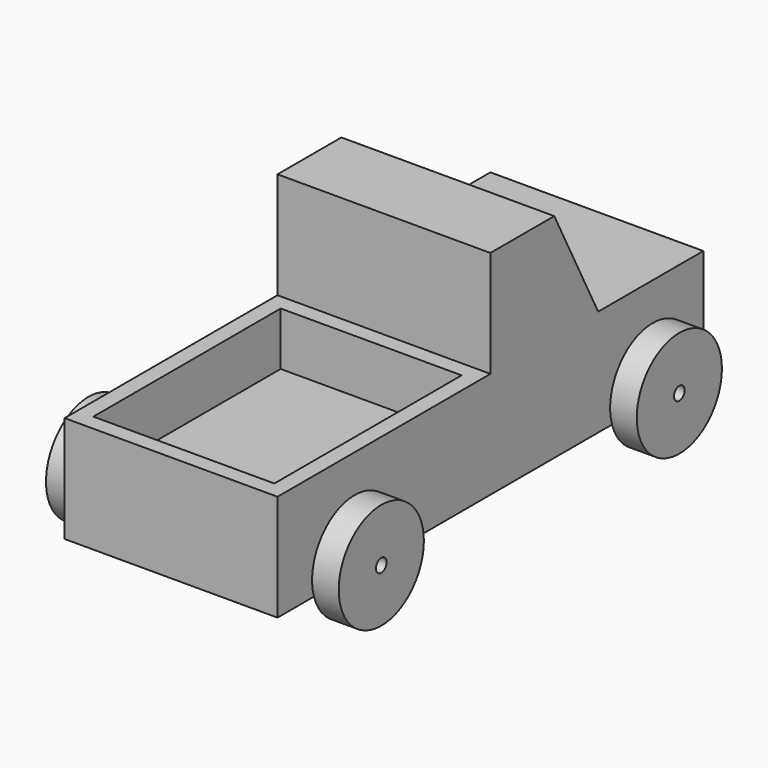
from build123d import *

# Parameters (mm, degrees)
F0_W       = 40
F0_H       = 20
F1_DEPTH   = 50
F1_FACE_W  = 40
F1_FACE_H  = 20
F2_DEPTH   = 50
F3_W       = 15
F3_H       = 20
F4_DEPTH   = 20
F4_FACE_W  = 15
F4_FACE_H  = 20
F5_DEPTH   = 20
F7_DEPTH   = 40
F8_R       = 2.5
F9_DEPTH   = 40.001
F10_R      = 2.5
F11_DEPTH  = 40.001
F12_W      = 34
F12_H      = 44
F13_DEPTH  = 10
F14_R      = 1.25
F15_DEPTH  = 22.5
F15_FACE_R = 1.25
F16_DEPTH  = 22.5
F18_R      = 10
F18_R_2    = 1.25
F19_DEPTH  = 5


with BuildPart() as f1:
    # F0 (on Front) → F1 (new body)
    with BuildSketch(Plane.XZ):
        Rectangle(F0_W, F0_H)
    extrude(amount=F1_DEPTH)

    # F1_face (on face) → F2 (join)
    with BuildSketch(Plane(origin=(0, 0, 0), x_dir=(1, 0, 0), z_dir=(0, 1, 0))):
        Rectangle(F1_FACE_W, F1_FACE_H)
    extrude(amount=F2_DEPTH)

    # F3 (on Right) → F4 (join)
    with BuildSketch(Plane.YZ):
        with Locations((7.5, 20)):
            Rectangle(F3_W, F3_H)
    extrude(amount=F4_DEPTH)

    # F4_face (on face) → F5 (join)
    with BuildSketch(Plane(origin=(0, 7.5, 20), x_dir=(0, 1, 0), z_dir=(-1, 0, 0))):
        Rectangle(F4_FACE_W, F4_FACE_H)
    extrude(amount=F5_DEPTH)

    # F6 (on face) → F7 (join)
    with BuildSketch(Plane(origin=(-20, 0, 0), x_dir=(0, -1, 0), z_dir=(-1, 0, 0))):
        Polygon((-15, 10), (-15, 30), (-25.307764, 10), align=None)
    extrude(amount=-F7_DEPTH)

    # F8 (on face) → F9 (cut, through all)
    with BuildSketch(Plane(origin=(-20, 0, 0), x_dir=(0, -1, 0), z_dir=(-1, 0, 0))):
        with Locations((-35, -5)):
            Circle(F8_R)
    extrude(amount=-F9_DEPTH, mode=Mode.SUBTRACT)

    # F10 (on face) → F11 (cut, through all)
    with BuildSketch(Plane(origin=(-20, 0, 0), x_dir=(0, -1, 0), z_dir=(-1, 0, 0))):
        with Locations((35, -5)):
            Circle(F10_R)
    extrude(amount=-F11_DEPTH, mode=Mode.SUBTRACT)

    # F12 (on face) → F13 (cut)
    with BuildSketch(Plane.XY.offset(10)):
        with Locations((0, -25)):
            Rectangle(F12_W, F12_H)
    extrude(amount=-F13_DEPTH, mode=Mode.SUBTRACT)


with BuildPart() as f15:
    # F14 (on Right) → F15 (new body)
    with BuildSketch(Plane.YZ):
        with Locations((-35, -5)):
            Circle(F14_R)
    extrude(amount=F15_DEPTH)

    # F15_face (on face) → F16 (join)
    with BuildSketch(Plane(origin=(0, -35, -5), x_dir=(0, 1, 0), z_dir=(-1, 0, 0))):
        Circle(F15_FACE_R)
    extrude(amount=F16_DEPTH)


with BuildPart() as f17_1:
    # F17: copy of F15
    add(f15.part.moved(Location((0, 70, 0))))


with BuildPart() as f19:
    # F18 (on face) → F19 (new body)
    with BuildSketch(Plane.YZ.offset(22.5)):
        with Locations((-35, -5)):
            Circle(F18_R)
        with Locations((-35, -5)):
            Circle(F18_R_2, mode=Mode.SUBTRACT)
    extrude(amount=F19_DEPTH)


with BuildPart() as f20_1:
    # F20: copy of F19
    add(f19.part.moved(Location((0, 70, 0))))


with BuildPart() as f21_1:
    # F21: copy of F19
    add(f19.part.moved(Location((-50, 0, 0))))


with BuildPart() as f22_1:
    # F22: copy of F19
    add(f19.part.moved(Location((-50, 70, 0))))


solid = Compound([f1.part, f15.part, f17_1.part, f19.part, f20_1.part, f21_1.part, f22_1.part])
